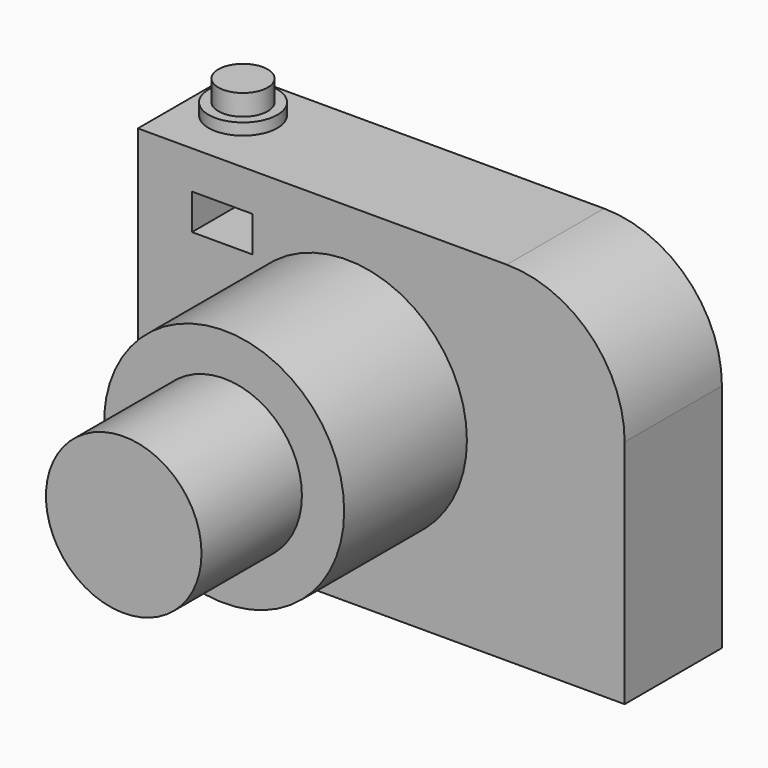
from build123d import *

# Parameters (mm, degrees)
F0_W      = 209.42099
F0_H      = 52.317056
F1_DEPTH  = 150
F2_R      = 50.698485
F3_R      = 51.659231
F4_DEPTH  = 66
F5_R      = 33.468817
F6_DEPTH  = 54
F7_R      = 14.795614
F8_DEPTH  = 5
F9_R      = 10.620202
F10_DEPTH = 9
F11_W     = 34.047097
F11_H     = 17.011657
F12_DEPTH = 43
F13_W     = 25.994077
F13_H     = 15.360802
F14_DEPTH = 77


with BuildPart() as f1:
    # F0 (on Top) → F1 (new body)
    with BuildSketch(Plane.XY):
        with Locations((-55.119449, -58.706915)):
            Rectangle(F0_W, F0_H)
    extrude(amount=F1_DEPTH)

    # F2
    f2_edges = [f1.edges().sort_by_distance(p)[0] for p in [
        (49.591046, -58.706915, 150),
    ]]
    fillet(f2_edges, radius=F2_R)

    # F3 (on face) → F4 (join)
    with BuildSketch(Plane.XZ.offset(84.865443)):
        with Locations((-69.931231, 77.866942)):
            Circle(F3_R)
    extrude(amount=F4_DEPTH)

    # F5 (on face) → F6 (join)
    with BuildSketch(Plane.XZ.offset(150.865443)):
        with Locations((-69.931231, 77.866942)):
            Circle(F5_R)
    extrude(amount=F6_DEPTH)

    # F7 (on face) → F8 (join)
    with BuildSketch(Plane.XY.offset(150)):
        with Locations((-138.16677, -55.403817)):
            Circle(F7_R)
    extrude(amount=F8_DEPTH)

    # F9 (on face) → F10 (join)
    with BuildSketch(Plane.XY.offset(155)):
        with Locations((-138.16677, -55.403817)):
            Circle(F9_R)
    extrude(amount=F10_DEPTH)

    # F11 (on face) → F12 (join)
    with BuildSketch(Plane.XZ.offset(84.865443)):
        with Locations((-135.340422, 126.199729)):
            Rectangle(F11_W, F11_H)
    extrude(amount=-F12_DEPTH)

    # F13 (on face) → F14 (cut)
    with BuildSketch(Plane.XZ.offset(84.865443)):
        with Locations((-123.564697, 125.956863)):
            Rectangle(F13_W, F13_H)
    extrude(amount=-F14_DEPTH, mode=Mode.SUBTRACT)


solid = f1.part
